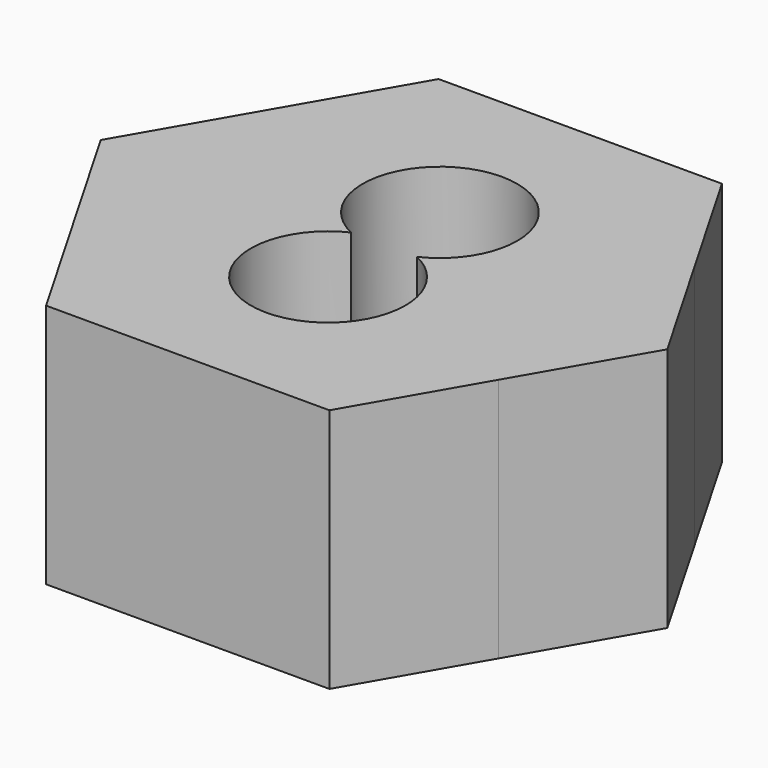
from build123d import *

# Parameters (mm, degrees)
F3_R     = 12.7
F0_DEPTH = 12.7
F2_DEPTH = 12.7


with BuildPart() as f0:
    # F3 (on Top) → F0 (new body)
    with BuildSketch(Plane.XY):
        with Locations((0, -3.6195)):
            Circle(F3_R)
        with BuildLine():
            ThreePointArc((-1.703884, -3.6195), (-2.143317, 3.377898), (4.0005, 0))
            ThreePointArc((4.0005, 0), (3.377898, -2.143317), (1.703884, -3.6195))
            ThreePointArc((1.703884, -3.6195), (3.377898, -5.095683), (4.0005, -7.239))
            ThreePointArc((4.0005, -7.239), (-2.143317, -10.616898), (-1.703884, -3.6195))
        make_face(mode=Mode.SUBTRACT)
    extrude(amount=F0_DEPTH)

    # F1 (on face) → F2 (join)
    with BuildSketch(Plane.XY.offset(12.7)):
        with BuildLine():
            ThreePointArc((12.7, -3.6195), (12.267258, -6.906502), (10.998522, -9.969501))
            Line((10.998522, -9.969501), (14.664697, -3.6195))
            Line((14.664697, -3.6195), (10.998522, 2.7305))
            ThreePointArc((10.998522, 2.7305), (12.267258, -0.332498), (12.7, -3.6195))
        make_face()
        with BuildLine():
            Line((-14.664697, -3.6195), (-10.998522, -9.9695))
            ThreePointArc((-10.998522, -9.9695), (-12.7, -3.6195), (-10.998522, 2.7305))
            Line((-10.998522, 2.7305), (-14.664697, -3.6195))
        make_face()
        with BuildLine():
            Line((-7.332348, 9.0805), (-10.998522, 2.7305))
            ThreePointArc((-10.998522, 2.7305), (-6.35, 7.379023), (0, 9.0805))
            Line((0, 9.0805), (-7.332348, 9.0805))
        make_face()
        with BuildLine():
            ThreePointArc((0, 9.0805), (6.35, 7.379023), (10.998522, 2.7305))
            Line((10.998522, 2.7305), (7.332348, 9.0805))
            Line((7.332348, 9.0805), (0, 9.0805))
        make_face()
        with BuildLine():
            Line((0, -16.3195), (7.332348, -16.3195))
            Line((7.332348, -16.3195), (10.998522, -9.969501))
            ThreePointArc((10.998522, -9.969501), (6.35, -14.618023), (0, -16.3195))
        make_face()
        with BuildLine():
            Line((-7.332348, -16.3195), (0, -16.3195))
            ThreePointArc((0, -16.3195), (-6.35, -14.618023), (-10.998522, -9.9695))
            Line((-10.998522, -9.9695), (-7.332348, -16.3195))
        make_face()
    extrude(amount=-F2_DEPTH)


solid = f0.part
